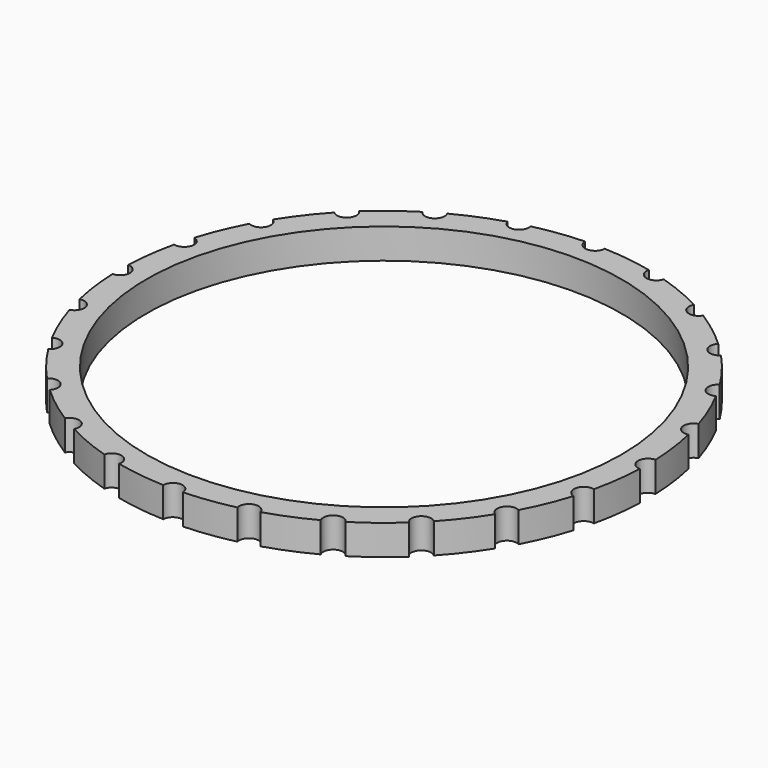
from build123d import *

# Parameters (mm, degrees)
CYLINDER001002001_R              = 2.6
CYLINDER001002001_DEPTH          = 20
CYLINDER001002001001_R           = 2.6
CYLINDER001002001001_DEPTH       = 20
CYLINDER001002001001001_R        = 2.6
CYLINDER001002001001001_DEPTH    = 20
CYLINDER001002001001001001_R     = 2.6
CYLINDER001002001001001001_DEPTH = 26
CYLINDER001002_R                 = 2.6
CYLINDER001002_DEPTH             = 20
CYLINDER001001_R                 = 2.6
CYLINDER001001_DEPTH             = 20
CYLINDER001_R                    = 2.6
CYLINDER001_DEPTH                = 20
CYLINDER002_R                    = 63
CYLINDER002_DEPTH                = 10
CYLINDER_R                       = 70
CYLINDER_DEPTH                   = 8


with BuildPart() as pole2:
    # Cylinder001002001 → Cylinder001002001 (new body)
    with BuildSketch(Plane(origin=(67.55, 18.2, 0), x_dir=(1, 0, 0), z_dir=(0, 0, 1))):
        Circle(CYLINDER001002001_R)
    extrude(amount=CYLINDER001002001_DEPTH)


with BuildPart() as pole003:
    # Cylinder001002001001 → Cylinder001002001001 (new body)
    with BuildSketch(Plane(origin=(60.62, 35, 0), x_dir=(1, 0, 0), z_dir=(0, 0, 1))):
        Circle(CYLINDER001002001001_R)
    extrude(amount=CYLINDER001002001001_DEPTH)


with BuildPart() as pole004:
    # Cylinder001002001001001 → Cylinder001002001001001 (new body)
    with BuildSketch(Plane(origin=(49.49, 49.49, 0), x_dir=(1, 0, 0), z_dir=(0, 0, 1))):
        Circle(CYLINDER001002001001001_R)
    extrude(amount=CYLINDER001002001001001_DEPTH)


with BuildPart() as pole005:
    # Cylinder001002001001001001 → Cylinder001002001001001001 (new body)
    with BuildSketch(Plane(origin=(35, 60.62, 0), x_dir=(1, 0, 0), z_dir=(0, 0, 1))):
        Circle(CYLINDER001002001001001001_R)
    extrude(amount=CYLINDER001002001001001001_DEPTH)


with BuildPart() as cylinder001002:
    # Cylinder001002 → Cylinder001002 (new body)
    with BuildSketch(Plane(origin=(18.2, 67.55, 0), x_dir=(1, 0, 0), z_dir=(0, 0, 1))):
        Circle(CYLINDER001002_R)
    extrude(amount=CYLINDER001002_DEPTH)


with BuildPart() as fusion:
    # Fusion base: copy of pole2
    add(pole2.part)

    # Fusion: union pole003, pole004, pole005, Cylinder001002
    add(pole003.part)
    add(pole004.part)
    add(pole005.part)
    add(cylinder001002.part)


with BuildPart() as part_mirroring001:
    # Part__Mirroring001: instance of Fusion
    add(fusion.part.mirror(Plane(origin=(3e-06, 42.766762, 16), x_dir=(0, -1, 0), z_dir=(1, 0, 0))))


with BuildPart() as part_mirroring001_1:
    # Part__Mirroring001 placement: moved
    add(part_mirroring001.part.moved(Location((0, 0, -2))))


with BuildPart() as cylinder001001:
    # Cylinder001001 → Cylinder001001 (new body)
    with BuildSketch(Plane(origin=(0, 70, 0), x_dir=(1, 0, 0), z_dir=(0, 0, 1))):
        Circle(CYLINDER001001_R)
    extrude(amount=CYLINDER001001_DEPTH)


with BuildPart() as pole1:
    # Cylinder001 → Cylinder001 (new body)
    with BuildSketch(Plane(origin=(70, 0, 0), x_dir=(1, 0, 0), z_dir=(0, 0, 1))):
        Circle(CYLINDER001_R)
    extrude(amount=CYLINDER001_DEPTH)


with BuildPart() as part_mirroring003:
    # Part__Mirroring003: instance of pole1
    add(pole1.part.mirror(Plane(origin=(0, 0, 0), x_dir=(0, -1, 0), z_dir=(1, 0, 0))))


with BuildPart() as part_mirroring003_1:
    # Part__Mirroring003 placement: moved
    add(part_mirroring003.part.moved(Location((0, 0, -3))))


with BuildPart() as part_mirroring:
    # Part__Mirroring: instance of Fusion
    add(fusion.part.mirror(Plane(origin=(42.875, 2e-06, 12.999999), x_dir=(1, 0, 0), z_dir=(0, 1, 0))))


with BuildPart() as part_mirroring_1:
    # Part__Mirroring placement: moved
    add(part_mirroring.part.moved(Location((0, 0, -5))))


with BuildPart() as part_mirroring004:
    # Part__Mirroring004: instance of Cylinder001001
    add(cylinder001001.part.mirror(Plane(origin=(0, 0, 0), x_dir=(1, 0, 0), z_dir=(0, 1, 0))))


with BuildPart() as part_mirroring004_1:
    # Part__Mirroring004 placement: moved
    add(part_mirroring004.part.moved(Location((0, 0, -4))))


with BuildPart() as part_mirroring002:
    # Part__Mirroring002: instance of Part__Mirroring
    add(part_mirroring_1.part.mirror(Plane(origin=(0, 0, 0), x_dir=(0, -1, 0), z_dir=(1, 0, 0))))


with BuildPart() as part_mirroring002_1:
    # Part__Mirroring002 placement: moved
    add(part_mirroring002.part.moved(Location((0, 0, -4))))


with BuildPart() as fusion001:
    # Fusion001 base: copy of Cylinder001002
    add(cylinder001002.part)

    # Fusion001: union pole2, Part__Mirroring001, Cylinder001001, pole005, Part__Mirroring003, Part__Mirroring, Fusion, Part__Mirroring004, pole003, pole1, Part__Mirroring002, pole004
    add(pole2.part)
    add(part_mirroring001_1.part)
    add(cylinder001001.part)
    add(pole005.part)
    add(part_mirroring003_1.part)
    add(part_mirroring_1.part)
    add(fusion.part)
    add(part_mirroring004_1.part)
    add(pole003.part)
    add(pole1.part)
    add(part_mirroring002_1.part)
    add(pole004.part)


with BuildPart() as cylinder002:
    # Cylinder002 → Cylinder002 (new body)
    with BuildSketch(Plane.XY):
        Circle(CYLINDER002_R)
    extrude(amount=CYLINDER002_DEPTH)


with BuildPart() as cut001:
    # Cylinder → Cylinder (new body)
    with BuildSketch(Plane.XY):
        Circle(CYLINDER_R)
    extrude(amount=CYLINDER_DEPTH)

    # Cut: cut Cylinder002
    add(cylinder002.part, mode=Mode.SUBTRACT)

    # Cut001: cut Fusion001
    add(fusion001.part, mode=Mode.SUBTRACT)


solid = cut001.part
